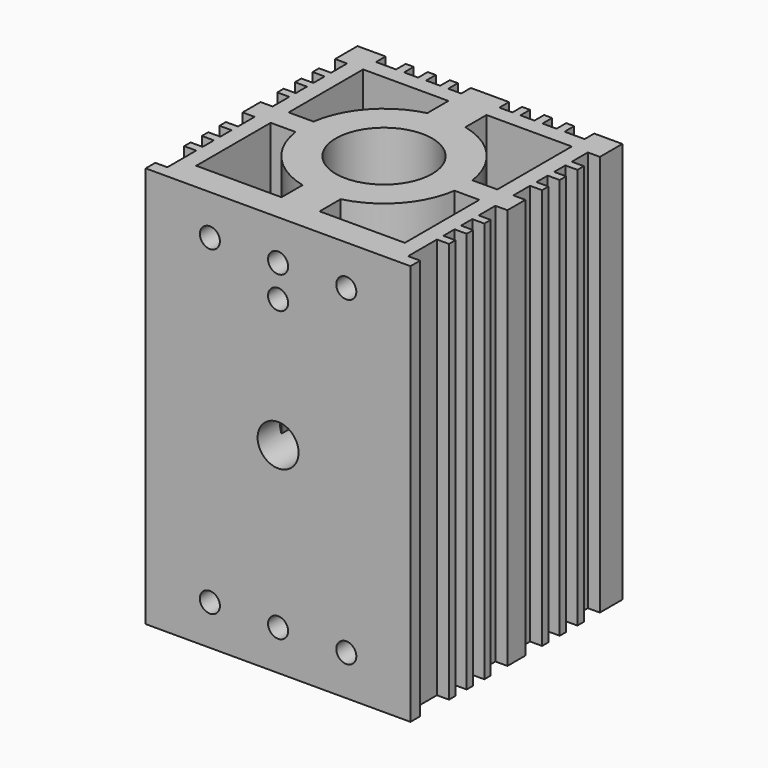
from build123d import *

# Parameters (mm, degrees)
F0_W     = 1
F0_H     = 1.5
F0_W_2   = 2
F0_H_2   = 2
F0_W_3   = 4.75
F0_W_4   = 1.5
F0_H_3   = 1
F0_H_4   = 2.8
F0_R     = 6
F1_DEPTH = 50
F3_D     = 5.1054
F3_DEPTH = 8.89
F3_TIP   = 1.5338169022
F4_D     = 2.5
F4_DEPTH = 4.675
F4_TIP   = 0.7510757738


with BuildPart() as f1:
    # F0 (on Top) → F1 (new body)
    with BuildSketch(Plane.XY):
        with Locations((-10, 15.75)):
            Rectangle(F0_W, F0_H)
        with Locations((-7.25, 15.75)):
            Rectangle(F0_W, F0_H)
        with Locations((-4.5, 15.75)):
            Rectangle(F0_W, F0_H)
        with Locations((4.5, 15.75)):
            Rectangle(F0_W, F0_H)
        with Locations((7.25, 15.75)):
            Rectangle(F0_W, F0_H)
        with Locations((10, 15.75)):
            Rectangle(F0_W, F0_H)
        Polygon((16.5, 13), (16.5, 16.5), (13, 16.5), (13, 15), (15, 15), (15, 13), align=None)
        with Locations((14, 14)):
            Rectangle(F0_W_2, F0_H_2)
        Polygon((13, 13), (13, 15), (10.5, 15), (9.5, 15), (7.75, 15), (6.75, 15), (5, 15), (4, 15), (2.375, 15), (2.375, 13), align=None)
        with Locations((0, 14)):
            Rectangle(F0_W_3, F0_H_2)
        with Locations((0, 15.75)):
            Rectangle(F0_W_3, F0_H)
        Polygon((-13, 13), (-2.375, 13), (-2.375, 15), (-4, 15), (-5, 15), (-6.75, 15), (-7.75, 15), (-9.5, 15), (-10.5, 15), (-13, 15), align=None)
        with Locations((-14, 14)):
            Rectangle(F0_W_2, F0_H_2)
        Polygon((-16.5, 13), (-15, 13), (-15, 15), (-13, 15), (-13, 16.5), (-16.5, 16.5), align=None)
        Polygon((-13, 1.4), (-13, 13), (-15, 13), (-15, 10.5), (-15, 9.5), (-15, 7.75), (-15, 6.75), (-15, 5), (-15, 4), (-15, 1.4), align=None)
        with Locations((-15.75, 10)):
            Rectangle(F0_W_4, F0_H_3)
        with Locations((-15.75, 7.25)):
            Rectangle(F0_W_4, F0_H_3)
        with Locations((-15.75, 4.5)):
            Rectangle(F0_W_4, F0_H_3)
        with Locations((-15.75, 0)):
            Rectangle(F0_W_4, F0_H_4)
        with Locations((-15.75, -4.5)):
            Rectangle(F0_W_4, F0_H_3)
        with Locations((-15.75, -7.25)):
            Rectangle(F0_W_4, F0_H_3)
        with Locations((-15.75, -10)):
            Rectangle(F0_W_4, F0_H_3)
        Polygon((-2.375, -15), (-2.375, -13), (-13, -13), (-13, -1.4), (-15, -1.4), (-15, -4), (-15, -5), (-15, -6.75), (-15, -7.75), (-15, -9.5), (-15, -10.5), (-15, -15), align=None)
        with Locations((-14, 0)):
            Rectangle(F0_W_2, F0_H_4)
        with BuildLine():
            ThreePointArc((-9.9015150356, -1.4), (-10, 0), (-9.9015150356, 1.4))
            Line((-9.9015150356, 1.4), (-13, 1.4))
            Line((-13, 1.4), (-13, -1.4))
            Line((-13, -1.4), (-9.9015150356, -1.4))
        make_face()
        with BuildLine():
            Line((2.375, 9.7138753852), (2.375, 13))
            Line((2.375, 13), (-2.375, 13))
            Line((-2.375, 13), (-2.375, 9.7138753852))
            ThreePointArc((-2.375, 9.7138753852), (0, 10), (2.375, 9.7138753852))
        make_face()
        with BuildLine():
            Line((13, -1.4), (13, 1.4))
            Line((13, 1.4), (9.9015150356, 1.4))
            ThreePointArc((9.9015150356, 1.4), (9.9753483738, 0.7017298783), (10, 0))
            ThreePointArc((10, 0), (9.9753483738, -0.7017298783), (9.9015150356, -1.4))
            Line((9.9015150356, -1.4), (13, -1.4))
        make_face()
        with Locations((14, 0)):
            Rectangle(F0_W_2, F0_H_4)
        with Locations((15.75, 10)):
            Rectangle(F0_W_4, F0_H_3)
        with Locations((15.75, 7.25)):
            Rectangle(F0_W_4, F0_H_3)
        with Locations((15.75, 4.5)):
            Rectangle(F0_W_4, F0_H_3)
        with Locations((15.75, 0)):
            Rectangle(F0_W_4, F0_H_4)
        Polygon((15, 10.5), (15, 13), (13, 13), (13, 1.4), (15, 1.4), (15, 4), (15, 5), (15, 6.75), (15, 7.75), (15, 9.5), align=None)
        Polygon((15, -1.4), (13, -1.4), (13, -13), (2.375, -13), (2.375, -15), (15, -15), (15, -10.5), (15, -9.5), (15, -7.75), (15, -6.75), (15, -5), (15, -4), align=None)
        with Locations((15.75, -4.5)):
            Rectangle(F0_W_4, F0_H_3)
        with Locations((15.75, -7.25)):
            Rectangle(F0_W_4, F0_H_3)
        with Locations((15.75, -10)):
            Rectangle(F0_W_4, F0_H_3)
        with Locations((0, -14)):
            Rectangle(F0_W_3, F0_H_2)
        with Locations((0, -15.75)):
            Rectangle(F0_W_3, F0_H)
        Polygon((15, -15), (2.375, -15), (2.375, -16.5), (16.5, -16.5), (16.5, -15), align=None)
        Polygon((-2.375, -16.5), (-2.375, -15), (-15, -15), (-16.5, -15), (-16.5, -16.5), align=None)
        with BuildLine():
            Line((2.375, -13), (2.375, -9.7138753852))
            ThreePointArc((2.375, -9.7138753852), (0, -10), (-2.375, -9.7138753852))
            Line((-2.375, -9.7138753852), (-2.375, -13))
            Line((-2.375, -13), (2.375, -13))
        make_face()
        with BuildLine():
            ThreePointArc((10, 0), (9.9753483738, 0.7017298783), (9.9015150356, 1.4))
            ThreePointArc((9.9015150356, 1.4), (7.4133889912, 6.7113086403), (2.375, 9.7138753852))
            ThreePointArc((2.375, 9.7138753852), (0, 10), (-2.375, 9.7138753852))
            ThreePointArc((-2.375, 9.7138753852), (-7.4133889912, 6.7113086403), (-9.9015150356, 1.4))
            ThreePointArc((-9.9015150356, 1.4), (-10, 0), (-9.9015150356, -1.4))
            ThreePointArc((-9.9015150356, -1.4), (-7.4133889912, -6.7113086403), (-2.375, -9.7138753852))
            ThreePointArc((-2.375, -9.7138753852), (0, -10), (2.375, -9.7138753852))
            ThreePointArc((2.375, -9.7138753852), (7.4133889912, -6.7113086403), (9.9015150356, -1.4))
            ThreePointArc((9.9015150356, -1.4), (9.9753483738, -0.7017298783), (10, 0))
        make_face()
        Circle(F0_R, mode=Mode.SUBTRACT)
    extrude(amount=F1_DEPTH)

    # F3
    with Locations(Plane.XZ.offset(16.5)):
        with Locations((0, 25)):
            Hole(F3_D / 2, depth=F3_DEPTH)
            with Locations((0, 0, -(F3_DEPTH + F3_TIP / 2))):  # 118° drill point
                Cone(0, F3_D / 2, F3_TIP, mode=Mode.SUBTRACT)

    # F4
    with Locations(Plane.XZ.offset(16.5)):
        with Locations((-8.5, 45), (0, 45), (0, 41), (8.5, 45), (8.5, 5), (0, 5), (-8.5, 5)):
            Hole(F4_D / 2, depth=F4_DEPTH)
            with Locations((0, 0, -(F4_DEPTH + F4_TIP / 2))):  # 118° drill point
                Cone(0, F4_D / 2, F4_TIP, mode=Mode.SUBTRACT)


solid = f1.part
